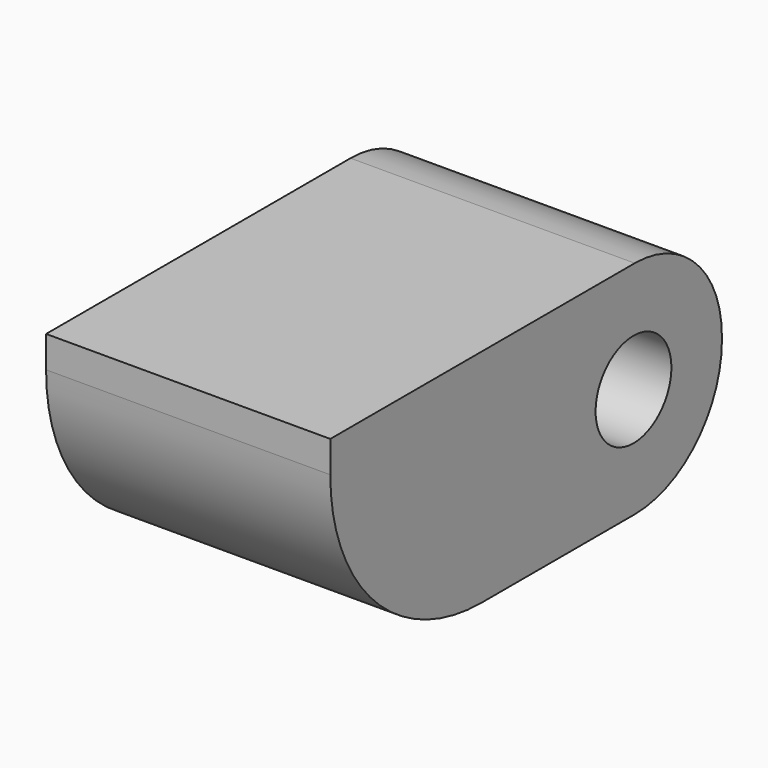
from build123d import *

# Parameters (mm, degrees)
CYLINDER002_R        = 1.5
CYLINDER002_DEPTH    = 11
BOX010_W             = 9
BOX010_H             = 15.5
BOX010_DEPTH         = 7
FILLET002008005010_R = 3.45
FILLET002008005011_R = 6


with BuildPart() as cylinder002:
    # Cylinder002 → Cylinder002 (new body)
    with BuildSketch(Plane(origin=(59, 25, 21.5), x_dir=(0, 0, -1), z_dir=(1, 0, 0))):
        Circle(CYLINDER002_R)
    extrude(amount=CYLINDER002_DEPTH)


with BuildPart() as cut:
    # Box010 → Box010 (new body)
    with BuildSketch(Plane(origin=(61, 13, 18), x_dir=(1, 0, 0), z_dir=(0, 0, 1))):
        with Locations((4.5, 7.75)):
            Rectangle(BOX010_W, BOX010_H)
    extrude(amount=BOX010_DEPTH)

    # Fillet002008005010
    fillet002008005010_edges = [cut.edges().sort_by_distance(p)[0] for p in [
        (65.5, 28.5, 18),
        (65.5, 28.5, 25),
    ]]
    fillet(fillet002008005010_edges, radius=FILLET002008005010_R)

    # Fillet002008005011
    fillet002008005011_edges = [cut.edges().sort_by_distance(p)[0] for p in [
        (65.5, 13, 18),
    ]]
    fillet(fillet002008005011_edges, radius=FILLET002008005011_R)

    # Cut: cut Cylinder002
    add(cylinder002.part, mode=Mode.SUBTRACT)


solid = cut.part
